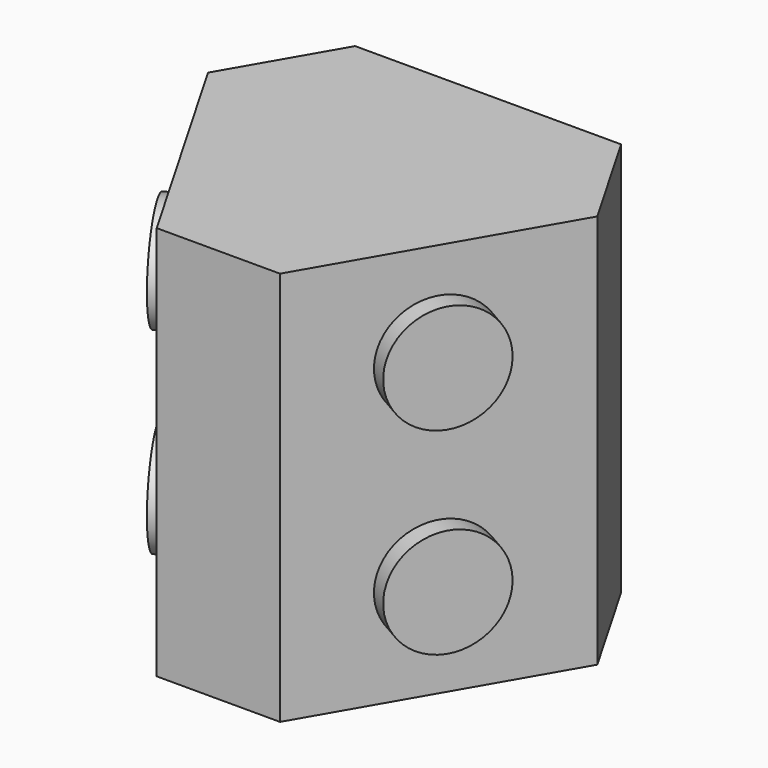
from build123d import *

# Parameters (mm, degrees)
F1_DEPTH = 101.6
F2_R     = 13.97
F3_DEPTH = 5.08
F4_R     = 13.97
F5_DEPTH = 5.08
F6_R     = 13.97
F7_DEPTH = 5.08


with BuildPart() as f1:
    # F0 (on Top) → F1 (new body)
    with BuildSketch(Plane.XY):
        Polygon((-50.1161357684, 10.6036934298), (-15.875, -48.7036934298), (15.875, -48.7036934298), (50.1161357684, 10.6036934298), (34.2411357684, 38.1), (-34.2411357684, 38.1), align=None)
    extrude(amount=F1_DEPTH)

    # F2 (on face) → F3 (join)
    with BuildSketch(Plane(origin=(-32.9955678842, -19.05, 0), x_dir=(0.5, -0.8660254038, 0), z_dir=(-0.8660254038, -0.5, 0))):
        with Locations((0, 76.2)):
            Circle(F2_R)
        with Locations((0, 25.4)):
            Circle(F2_R)
    extrude(amount=F3_DEPTH)

    # F4 (on face) → F5 (join)
    with BuildSketch(Plane(origin=(0, 38.1, 0), x_dir=(-1, 0, 0), z_dir=(0, 1, 0))):
        with Locations((0, 76.2)):
            Circle(F4_R)
        with Locations((0, 25.4)):
            Circle(F4_R)
    extrude(amount=F5_DEPTH)

    # F6 (on face) → F7 (join)
    with BuildSketch(Plane(origin=(32.9955678842, -19.05, 0), x_dir=(0.5, 0.8660254038, 0), z_dir=(0.8660254038, -0.5, 0))):
        with Locations((0, 76.2)):
            Circle(F6_R)
        with Locations((0, 25.4)):
            Circle(F6_R)
    extrude(amount=F7_DEPTH)


solid = f1.part
